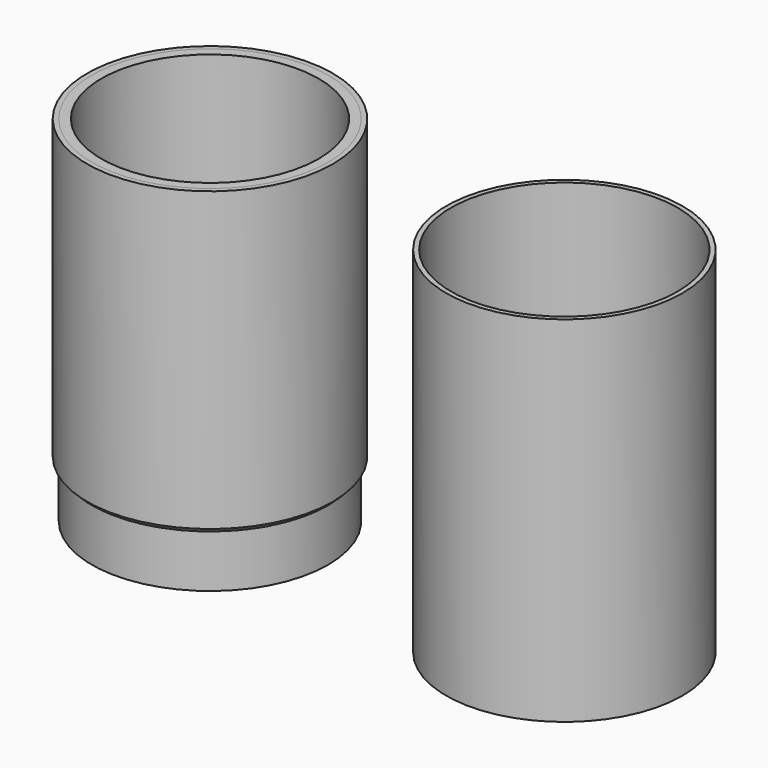
from build123d import *

# Parameters (mm, degrees)
SKETCH_R        = 10
PAD_DEPTH       = 30
SKETCH001_R     = 9.2
POCKET_DEPTH    = 29.2
SKETCH002_R     = 10
PAD001_DEPTH    = 30
SKETCH003_R     = 9.6
POCKET001_DEPTH = 29.6
SKETCH004_R     = 5
SKETCH005_R     = 10
SKETCH006_R     = 10
PAD002_DEPTH    = 25
THICKNESS_T     = 0.4


with BuildPart() as f_0_8mm:
    # Sketch → Pad (new body)
    with BuildSketch(Plane.XY):
        Circle(SKETCH_R)
    extrude(amount=PAD_DEPTH)

    # Sketch001 (on Face3 of Pad) → Pocket (cut)
    with BuildSketch(Plane.XY.offset(30)):
        Circle(SKETCH001_R)
    extrude(amount=-POCKET_DEPTH, mode=Mode.SUBTRACT)


with BuildPart() as f_0_4mm:
    # Sketch002 → Pad001 (new body)
    with BuildSketch(Plane.XY):
        Circle(SKETCH002_R)
    extrude(amount=PAD001_DEPTH)

    # Sketch003 (on Face3 of Pad001) → Pocket001 (cut)
    with BuildSketch(Plane.XY.offset(30)):
        Circle(SKETCH003_R)
    extrude(amount=-POCKET001_DEPTH, mode=Mode.SUBTRACT)


with BuildPart() as f_0_4mm_1:
    # Body001 placement: moved
    add(f_0_4mm.part.moved(Location((30, 0, 0))))


with BuildPart() as body002:
    # Sketch004 → AdditiveLoft section 0
    with BuildSketch(Plane.XY):
        Circle(SKETCH004_R)
    # Sketch005 → AdditiveLoft section 1
    with BuildSketch(Plane.XY.offset(5)):
        Circle(SKETCH005_R)
    loft()

    # Sketch006 (on Face3 of AdditiveLoft) → Pad002 (new body)
    with BuildSketch(Plane.XY.offset(5)):
        Circle(SKETCH006_R)
    extrude(amount=PAD002_DEPTH)

    # Thickness
    thickness_openings = [body002.faces().sort_by_distance(p)[0] for p in [
        (0, 0, 30),
        (0, 0, 0),
    ]]
    offset(amount=THICKNESS_T, openings=thickness_openings, kind=Kind.INTERSECTION)


solid = Compound([f_0_8mm.part, f_0_4mm_1.part, body002.part])
